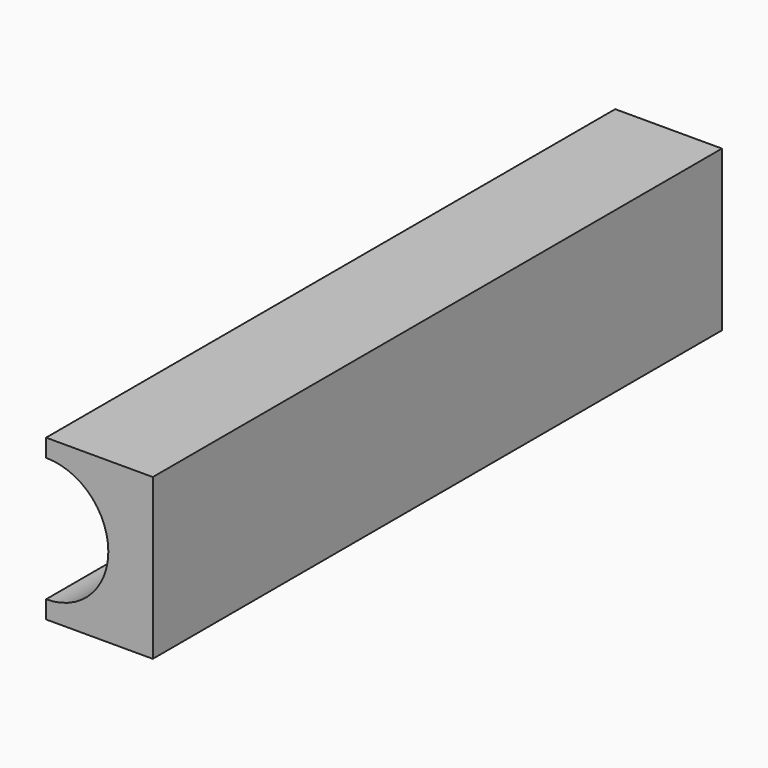
from build123d import *

# Parameters (mm, degrees)
F1_DEPTH = 100


with BuildPart() as f1:
    # F0 (on Front) → F1 (new body, symmetric)
    with BuildSketch(Plane.XZ):
        with BuildLine():
            Line((-15, -17.5), (-15, -22.5))
            Line((-15, -22.5), (15, -22.5))
            Line((15, -22.5), (15, 22.5))
            Line((15, 22.5), (-15, 22.5))
            Line((-15, 22.5), (-15, 17.5))
            ThreePointArc((-15, 17.5), (2.5, 0), (-15, -17.5))
        make_face()
        with BuildLine():
            Line((-15, -17.5), (-15, -22.5))
            Line((-15, -22.5), (15, -22.5))
            Line((15, -22.5), (15, 22.5))
            Line((15, 22.5), (-15, 22.5))
            Line((-15, 22.5), (-15, 17.5))
            ThreePointArc((-15, 17.5), (2.5, 0), (-15, -17.5))
        make_face()
        with BuildLine():
            Line((-15, -17.5), (-15, -22.5))
            Line((-15, -22.5), (15, -22.5))
            Line((15, -22.5), (15, 22.5))
            Line((15, 22.5), (-15, 22.5))
            Line((-15, 22.5), (-15, 17.5))
            ThreePointArc((-15, 17.5), (2.5, 0), (-15, -17.5))
        make_face()
        with BuildLine():
            Line((-15, -17.5), (-15, -22.5))
            Line((-15, -22.5), (15, -22.5))
            Line((15, -22.5), (15, 22.5))
            Line((15, 22.5), (-15, 22.5))
            Line((-15, 22.5), (-15, 17.5))
            ThreePointArc((-15, 17.5), (2.5, 0), (-15, -17.5))
        make_face()
    extrude(amount=F1_DEPTH, both=True)


solid = f1.part
